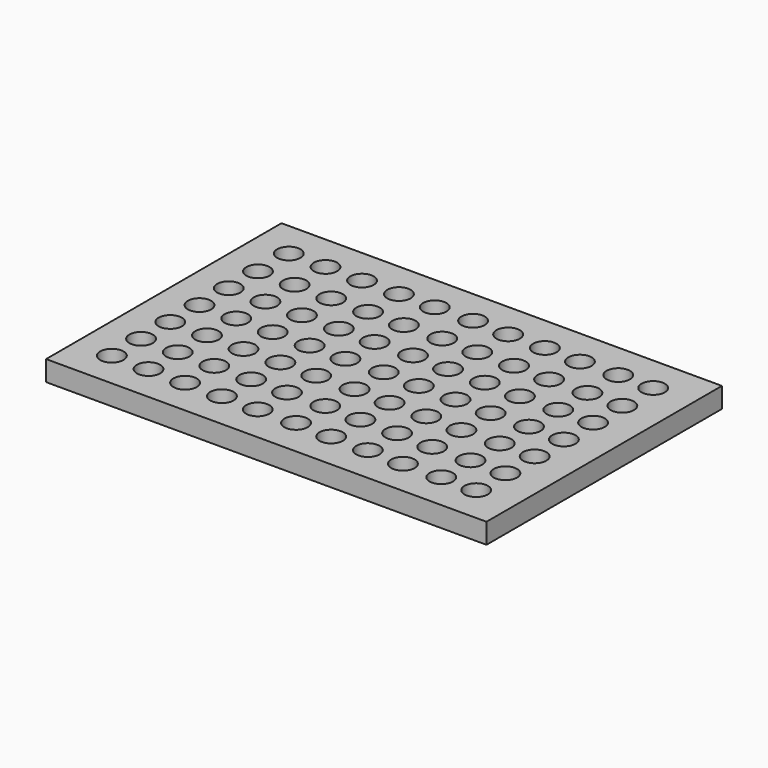
from build123d import *

# Parameters (mm, degrees)
F0_R     = 2.875
F1_DEPTH = 5


with BuildPart() as f1:
    # F0 (on Top) → F1 (new body)
    with BuildSketch(Plane.XY):
        Polygon((0, 9), (0, 0), (9, 0), (108.5, 0), (108.5, 9), (108.5, 18), (108.5, 27), (108.5, 36), (108.5, 45), (108.5, 54), (108.5, 72.5), (99, 72.5), (90, 72.5), (81, 72.5), (72, 72.5), (63, 72.5), (54.25, 72.5), (54, 72.5), (45, 72.5), (36, 72.5), (27, 72.5), (18, 72.5), (9, 72.5), (0, 72.5), (0, 63.5), (0, 45), (0, 36), (0, 27), (0, 18), align=None)
        with Locations((9, 9)):
            Circle(F0_R, mode=Mode.SUBTRACT)
        with Locations((17.994819, 9.054309)):
            Circle(F0_R, mode=Mode.SUBTRACT)
        with Locations((27.038096, 9)):
            Circle(F0_R, mode=Mode.SUBTRACT)
        with Locations((9, 18)):
            Circle(F0_R, mode=Mode.SUBTRACT)
        with Locations((17.994819, 18.054309)):
            Circle(F0_R, mode=Mode.SUBTRACT)
        with Locations((27.038096, 18)):
            Circle(F0_R, mode=Mode.SUBTRACT)
        with Locations((36.08137, 9.054309)):
            Circle(F0_R, mode=Mode.SUBTRACT)
        with Locations((44.904079, 9.054309)):
            Circle(F0_R, mode=Mode.SUBTRACT)
        with Locations((36.08137, 18.054309)):
            Circle(F0_R, mode=Mode.SUBTRACT)
        with Locations((54.167923, 9.274876)):
            Circle(F0_R, mode=Mode.SUBTRACT)
        with Locations((44.904079, 18.054309)):
            Circle(F0_R, mode=Mode.SUBTRACT)
        with Locations((9, 27)):
            Circle(F0_R, mode=Mode.SUBTRACT)
        with Locations((17.994819, 27.054309)):
            Circle(F0_R, mode=Mode.SUBTRACT)
        with Locations((27.038096, 27)):
            Circle(F0_R, mode=Mode.SUBTRACT)
        with Locations((9, 36)):
            Circle(F0_R, mode=Mode.SUBTRACT)
        with Locations((17.994819, 36.054309)):
            Circle(F0_R, mode=Mode.SUBTRACT)
        with Locations((27.038096, 36)):
            Circle(F0_R, mode=Mode.SUBTRACT)
        with Locations((36.08137, 27.054309)):
            Circle(F0_R, mode=Mode.SUBTRACT)
        with Locations((54.167923, 18.274876)):
            Circle(F0_R, mode=Mode.SUBTRACT)
        with Locations((44.904079, 27.054309)):
            Circle(F0_R, mode=Mode.SUBTRACT)
        with Locations((36.08137, 36.054309)):
            Circle(F0_R, mode=Mode.SUBTRACT)
        with Locations((54.167923, 27.274876)):
            Circle(F0_R, mode=Mode.SUBTRACT)
        with Locations((44.904079, 36.054309)):
            Circle(F0_R, mode=Mode.SUBTRACT)
        with Locations((62.990628, 9.054309)):
            Circle(F0_R, mode=Mode.SUBTRACT)
        with Locations((72.033904, 9.054309)):
            Circle(F0_R, mode=Mode.SUBTRACT)
        with Locations((80.856614, 8.833742)):
            Circle(F0_R, mode=Mode.SUBTRACT)
        with Locations((62.990628, 18.054309)):
            Circle(F0_R, mode=Mode.SUBTRACT)
        with Locations((72.033904, 18.054309)):
            Circle(F0_R, mode=Mode.SUBTRACT)
        with Locations((80.856614, 17.833742)):
            Circle(F0_R, mode=Mode.SUBTRACT)
        with Locations((90.120457, 9.054309)):
            Circle(F0_R, mode=Mode.SUBTRACT)
        with Locations((98.722592, 9.054309)):
            Circle(F0_R, mode=Mode.SUBTRACT)
        with Locations((90.120457, 18.054309)):
            Circle(F0_R, mode=Mode.SUBTRACT)
        with Locations((98.722592, 18.054309)):
            Circle(F0_R, mode=Mode.SUBTRACT)
        with Locations((62.990628, 27.054309)):
            Circle(F0_R, mode=Mode.SUBTRACT)
        with Locations((72.033904, 27.054309)):
            Circle(F0_R, mode=Mode.SUBTRACT)
        with Locations((80.856614, 26.833742)):
            Circle(F0_R, mode=Mode.SUBTRACT)
        with Locations((62.990628, 36.054309)):
            Circle(F0_R, mode=Mode.SUBTRACT)
        with Locations((72.033904, 36.054309)):
            Circle(F0_R, mode=Mode.SUBTRACT)
        with Locations((80.856614, 35.833742)):
            Circle(F0_R, mode=Mode.SUBTRACT)
        with Locations((90.120457, 27.054309)):
            Circle(F0_R, mode=Mode.SUBTRACT)
        with Locations((98.722592, 27.054309)):
            Circle(F0_R, mode=Mode.SUBTRACT)
        with Locations((90.120457, 36.054309)):
            Circle(F0_R, mode=Mode.SUBTRACT)
        with Locations((98.722592, 36.054309)):
            Circle(F0_R, mode=Mode.SUBTRACT)
        with Locations((9, 45)):
            Circle(F0_R, mode=Mode.SUBTRACT)
        with Locations((17.994819, 45.054309)):
            Circle(F0_R, mode=Mode.SUBTRACT)
        with Locations((27.038096, 45)):
            Circle(F0_R, mode=Mode.SUBTRACT)
        with Locations((9, 54)):
            Circle(F0_R, mode=Mode.SUBTRACT)
        with Locations((17.994819, 54.054309)):
            Circle(F0_R, mode=Mode.SUBTRACT)
        with Locations((27.038096, 54)):
            Circle(F0_R, mode=Mode.SUBTRACT)
        with Locations((36.08137, 45.054309)):
            Circle(F0_R, mode=Mode.SUBTRACT)
        with Locations((54.167923, 36.274876)):
            Circle(F0_R, mode=Mode.SUBTRACT)
        with Locations((44.904079, 45.054309)):
            Circle(F0_R, mode=Mode.SUBTRACT)
        with Locations((54.167923, 45.274876)):
            Circle(F0_R, mode=Mode.SUBTRACT)
        with Locations((36.08137, 54.054309)):
            Circle(F0_R, mode=Mode.SUBTRACT)
        with Locations((44.904079, 54.054309)):
            Circle(F0_R, mode=Mode.SUBTRACT)
        with Locations((54.167923, 54.274876)):
            Circle(F0_R, mode=Mode.SUBTRACT)
        with Locations((9, 63.5)):
            Circle(F0_R, mode=Mode.SUBTRACT)
        with Locations((17.994819, 63.554309)):
            Circle(F0_R, mode=Mode.SUBTRACT)
        with Locations((27.038096, 63.5)):
            Circle(F0_R, mode=Mode.SUBTRACT)
        with Locations((36.08137, 63.554309)):
            Circle(F0_R, mode=Mode.SUBTRACT)
        with Locations((44.904079, 63.554309)):
            Circle(F0_R, mode=Mode.SUBTRACT)
        with Locations((54.167923, 63.774876)):
            Circle(F0_R, mode=Mode.SUBTRACT)
        with Locations((62.990628, 45.054309)):
            Circle(F0_R, mode=Mode.SUBTRACT)
        with Locations((72.033904, 45.054309)):
            Circle(F0_R, mode=Mode.SUBTRACT)
        with Locations((80.856614, 44.833742)):
            Circle(F0_R, mode=Mode.SUBTRACT)
        with Locations((62.990628, 54.054309)):
            Circle(F0_R, mode=Mode.SUBTRACT)
        with Locations((72.033904, 54.054309)):
            Circle(F0_R, mode=Mode.SUBTRACT)
        with Locations((80.856614, 53.833742)):
            Circle(F0_R, mode=Mode.SUBTRACT)
        with Locations((90.120457, 45.054309)):
            Circle(F0_R, mode=Mode.SUBTRACT)
        with Locations((98.722592, 45.054309)):
            Circle(F0_R, mode=Mode.SUBTRACT)
        with Locations((90.120457, 54.054309)):
            Circle(F0_R, mode=Mode.SUBTRACT)
        with Locations((98.722592, 54.054309)):
            Circle(F0_R, mode=Mode.SUBTRACT)
        with Locations((80.856614, 63.333742)):
            Circle(F0_R, mode=Mode.SUBTRACT)
        with Locations((62.990628, 63.554309)):
            Circle(F0_R, mode=Mode.SUBTRACT)
        with Locations((72.033904, 63.554309)):
            Circle(F0_R, mode=Mode.SUBTRACT)
        with Locations((90.120457, 63.554309)):
            Circle(F0_R, mode=Mode.SUBTRACT)
        with Locations((98.722592, 63.554309)):
            Circle(F0_R, mode=Mode.SUBTRACT)
    extrude(amount=F1_DEPTH)


solid = f1.part
